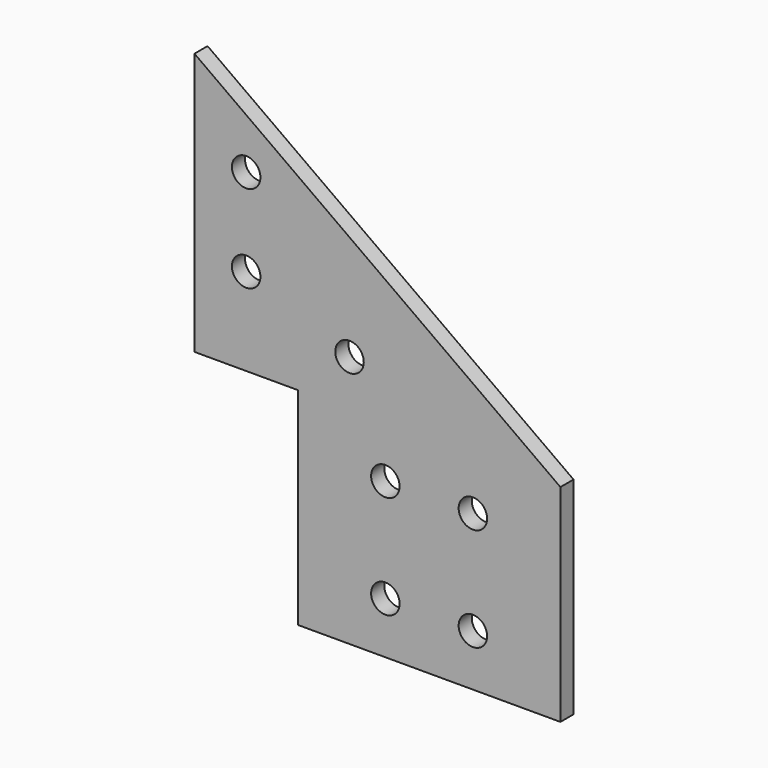
from build123d import *

# Parameters (mm, degrees)
F0_R     = 2.7559
F1_DEPTH = 3.175


with BuildPart() as f1:
    # F0 (on Front) → F1 (new body)
    with BuildSketch(Plane.XZ):
        Polygon((1.1e-05, -14.514416), (1.1e-05, -40), (50.800011, -40), (50.800011, 0), (-20, 50.8), (-20, 0), (1.1e-05, 0), align=None)
        with Locations((16.933344, -29.999995)):
            Circle(F0_R, mode=Mode.SUBTRACT)
        with Locations((33.866677, -29.999995)):
            Circle(F0_R, mode=Mode.SUBTRACT)
        with Locations((16.933344, -10.000005)):
            Circle(F0_R, mode=Mode.SUBTRACT)
        with Locations((33.866677, -10.000005)):
            Circle(F0_R, mode=Mode.SUBTRACT)
        with Locations((-9.999995, 16.933333)):
            Circle(F0_R, mode=Mode.SUBTRACT)
        with Locations((10.000016, 8.907365)):
            Circle(F0_R, mode=Mode.SUBTRACT)
        with Locations((-9.999995, 33.866667)):
            Circle(F0_R, mode=Mode.SUBTRACT)
        Polygon((1.1e-05, -14.514416), (1.1e-05, -40), (50.800011, -40), (50.800011, 0), (-20, 50.8), (-20, 0), (1.1e-05, 0), align=None)
        with Locations((16.933344, -29.999995)):
            Circle(F0_R, mode=Mode.SUBTRACT)
        with Locations((33.866677, -29.999995)):
            Circle(F0_R, mode=Mode.SUBTRACT)
        with Locations((16.933344, -10.000005)):
            Circle(F0_R, mode=Mode.SUBTRACT)
        with Locations((33.866677, -10.000005)):
            Circle(F0_R, mode=Mode.SUBTRACT)
        with Locations((-9.999995, 16.933333)):
            Circle(F0_R, mode=Mode.SUBTRACT)
        with Locations((10.000016, 8.907365)):
            Circle(F0_R, mode=Mode.SUBTRACT)
        with Locations((-9.999995, 33.866667)):
            Circle(F0_R, mode=Mode.SUBTRACT)
    extrude(amount=-F1_DEPTH)


solid = f1.part
